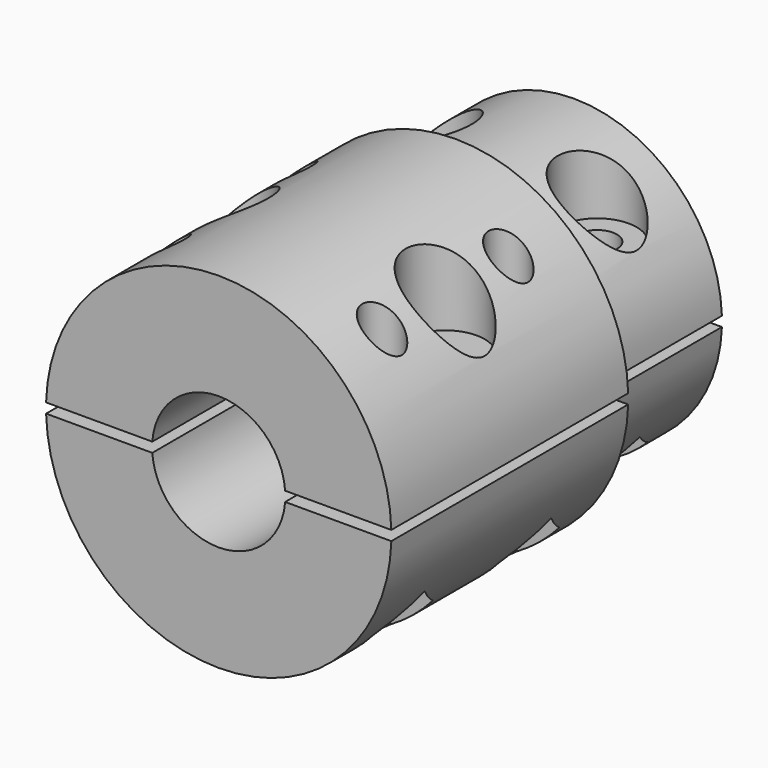
from build123d import *

# Parameters (mm, degrees)
F0_R      = 17.5
F0_R_2    = 6.75
F1_DEPTH  = 30
F2_R      = 15
F2_R_2    = 2.95
F3_DEPTH  = 15
F4_W      = 82.1119621268
F4_H      = 1
F5_DEPTH  = 25
F6_R      = 2
F7_DEPTH  = 20
F9_R      = 4
F10_DEPTH = 12
F13_DEPTH = 13
F15_DEPTH = 6


with BuildPart() as f1:
    # F0 (on Front) → F1 (new body)
    with BuildSketch(Plane.XZ):
        Circle(F0_R)
        Circle(F0_R_2, mode=Mode.SUBTRACT)
    extrude(amount=F1_DEPTH)

    # F2 (on Front) → F3 (join)
    with BuildSketch(Plane.XZ):
        Circle(F2_R)
        Circle(F2_R_2, mode=Mode.SUBTRACT)
    extrude(amount=-F3_DEPTH)

    # F4 (on Right) → F5 (cut, symmetric)
    with BuildSketch(Plane.YZ):
        with Locations((-8.9440189366, 0)):
            Rectangle(F4_W, F4_H)
    extrude(amount=F5_DEPTH, both=True, mode=Mode.SUBTRACT)

    # F6 (on Top) → F7 (cut, symmetric)
    with BuildSketch(Plane.XY):
        with Locations((-8.3493401773, 7.5)):
            Circle(F6_R)
        with Locations((8.3493401773, 7.5)):
            Circle(F6_R)
        with Locations((-10.9474163887, -7)):
            Circle(F6_R)
        with Locations((-10.9474163887, -23)):
            Circle(F6_R)
        with Locations((10.9474163887, -23)):
            Circle(F6_R)
        with Locations((10.9474163887, -7)):
            Circle(F6_R)
    extrude(amount=F7_DEPTH, both=True, mode=Mode.SUBTRACT)

    # F9 (on offset) → F10 (cut)
    with BuildSketch(Plane.XY.offset(20)):
        with Locations((-8.3493401773, 7.5)):
            Circle(F9_R)
        with Locations((8.3493401773, 7.5)):
            Circle(F9_R)
        with Locations((10.9474163887, -15)):
            Circle(F9_R)
        with Locations((-10.9474163887, -15)):
            Circle(F9_R)
    extrude(amount=-F10_DEPTH, mode=Mode.SUBTRACT)

    # F12 (on offset) → F13 (cut)
    with BuildSketch(Plane.XY.offset(-20)):
        Polygon((-13.1124798981, -26.75), (-8.7823528792, -26.75), (-6.6172893698, -23), (-8.7823528792, -19.25), (-13.1124798981, -19.25), (-15.2775434076, -23), align=None)
        Polygon((8.7823528792, -26.75), (13.1124798981, -26.75), (15.2775434076, -23), (13.1124798981, -19.25), (8.7823528792, -19.25), (6.6172893698, -23), align=None)
        Polygon((13.1124798981, -3.2283734642), (8.7823528792, -3.2283734642), (6.6172893698, -6.9783734642), (8.7823528792, -10.7283734642), (13.1124798981, -10.7283734642), (15.2775434076, -6.9783734642), align=None)
        Polygon((-15.2775434076, -6.9783734642), (-13.1124798981, -10.7283734642), (-8.7823528792, -10.7283734642), (-6.6172893698, -6.9783734642), (-8.7823528792, -3.2283734642), (-13.1124798981, -3.2283734642), align=None)
        Polygon((-12.6794671963, 7.5), (-10.5144036868, 3.75), (-6.1842766679, 3.75), (-4.0192131584, 7.5), (-6.1842766679, 11.25), (-10.5144036868, 11.25), align=None)
        Polygon((4.0192131584, 7.5), (6.1842766679, 3.75), (10.5144036868, 3.75), (12.6794671963, 7.5), (10.5144036868, 11.25), (6.1842766679, 11.25), align=None)
    extrude(amount=F13_DEPTH, mode=Mode.SUBTRACT)

    # F14 (on face) → F15 (cut)
    with BuildSketch(Plane.XZ):
        with BuildLine():
            ThreePointArc((-4.9749371855, 0.5), (-0.2503138753, -4.9937303656), (5, 0))
            ThreePointArc((5, 0), (4.9937303656, 0.2503138753), (4.9749371855, 0.5))
            Line((4.9749371855, 0.5), (2.907318352, 0.5))
            ThreePointArc((2.907318352, 0.5), (0, 2.95), (-2.907318352, 0.5))
            Line((-2.907318352, 0.5), (-4.9749371855, 0.5))
        make_face()
        with BuildLine():
            Line((2.907318352, 0.5), (4.9749371855, 0.5))
            ThreePointArc((4.9749371855, 0.5), (0, 5), (-4.9749371855, 0.5))
            Line((-4.9749371855, 0.5), (-2.907318352, 0.5))
            ThreePointArc((-2.907318352, 0.5), (0, 2.95), (2.907318352, 0.5))
        make_face()
    extrude(amount=-F15_DEPTH, mode=Mode.SUBTRACT)


solid = f1.part
